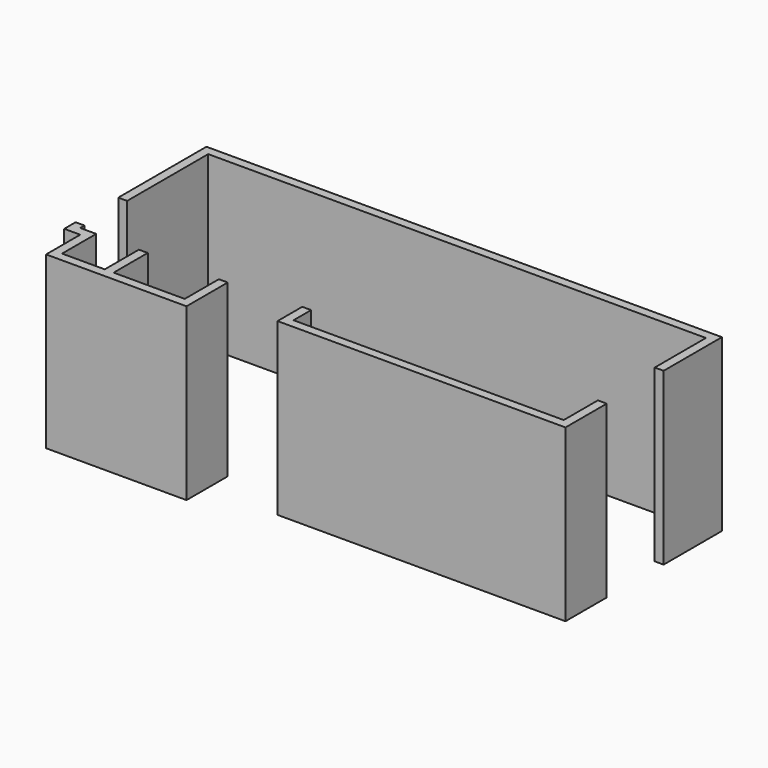
from build123d import *

# Parameters (mm, degrees)
F1_DEPTH = 2438.4


with BuildPart() as f1:
    # F0 (on Top) → F1 (new body)
    with BuildSketch(Plane.XY):
        Polygon((-127, 762), (0, 762), (0, 2209.8), (7112, 2209.8), (7112, 1295.4), (7239, 1295.4), (7239, 2336.8), (-127, 2336.8), align=None)
        Polygon((0, -76.2), (0, 0), (-127, 0), (-127, -203.2), (101.6, -203.2), (101.6, -812.8), (2108.2, -812.8), (2108.2, -76.2), (1981.2, -76.2), (1981.2, -685.8), (965.2, -685.8), (965.2, -76.2), (838.2, -76.2), (838.2, -685.8), (228.6, -685.8), (228.6, -76.2), align=None)
        Polygon((0, -76.2), (0, 0), (-127, 0), (-127, -203.2), (101.6, -203.2), (101.6, -812.8), (2108.2, -812.8), (2108.2, -76.2), (1981.2, -76.2), (1981.2, -685.8), (965.2, -685.8), (965.2, -76.2), (838.2, -76.2), (838.2, -685.8), (228.6, -685.8), (228.6, -76.2), align=None)
        Polygon((7239, -457.2), (7239, 279.4), (7112, 279.4), (7112, -330.2), (3251.2, -330.2), (3251.2, -15.387091), (3124.2, -15.387091), (3124.2, -457.2), align=None)
        Polygon((7239, -457.2), (7239, 279.4), (7112, 279.4), (7112, -330.2), (3251.2, -330.2), (3251.2, -15.387091), (3124.2, -15.387091), (3124.2, -457.2), align=None)
    extrude(amount=F1_DEPTH)


solid = f1.part
